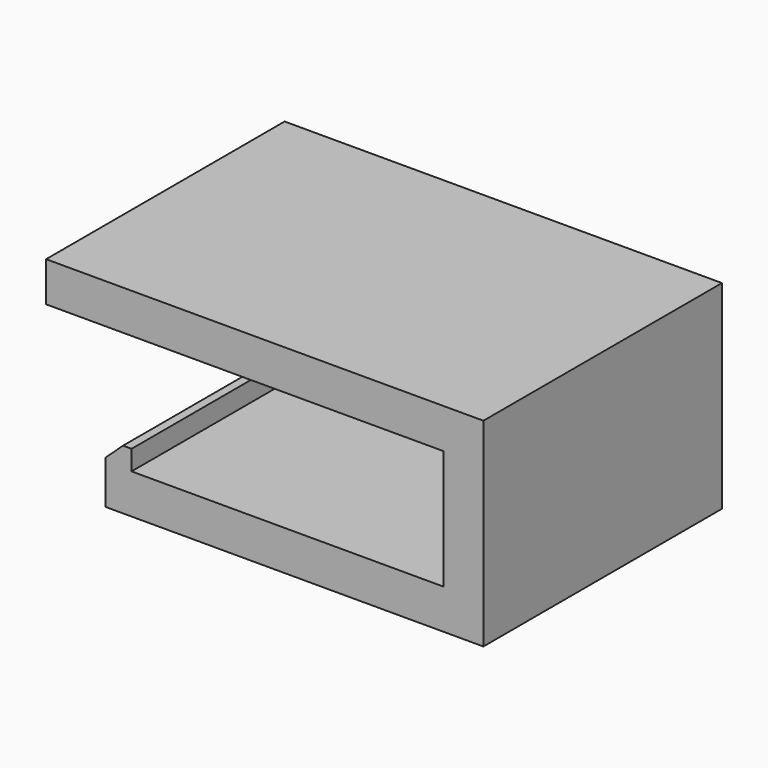
from build123d import *

# Parameters (mm, degrees)
F0_W     = 19
F0_H     = 15
F1_DEPTH = 2
F2_W     = 2
F2_H     = 15
F3_DEPTH = 8
F4_W     = 15
F4_H     = 2
F5_DEPTH = 20
F6_W     = 1.3
F6_H     = 15
F7_DEPTH = 1
F9_DEPTH = 25


with BuildPart() as f1:
    # F0 (on Top) → F1 (new body)
    with BuildSketch(Plane.XY):
        Rectangle(F0_W, F0_H)
    extrude(amount=F1_DEPTH)

    # F2 (on face) → F3 (join)
    with BuildSketch(Plane.XY.offset(2)):
        with Locations((8.5, 0)):
            Rectangle(F2_W, F2_H)
    extrude(amount=F3_DEPTH)

    # F4 (on face) → F5 (join)
    with BuildSketch(Plane(origin=(7.5, 0, 0), x_dir=(0, -1, 0), z_dir=(-1, 0, 0))):
        with Locations((0, 9)):
            Rectangle(F4_W, F4_H)
    extrude(amount=F5_DEPTH)

    # F6 (on face) → F7 (join)
    with BuildSketch(Plane.XY.offset(2)):
        with Locations((-8.85, 0)):
            Rectangle(F6_W, F6_H)
    extrude(amount=F7_DEPTH)

    # F8 (on face) → F9 (cut)
    with BuildSketch(Plane.XZ.offset(7.5)):
        Polygon((-9.5, 3), (-9.5, 2.195644), (-8.629206, 3), align=None)
    extrude(amount=-F9_DEPTH, mode=Mode.SUBTRACT)


solid = f1.part
